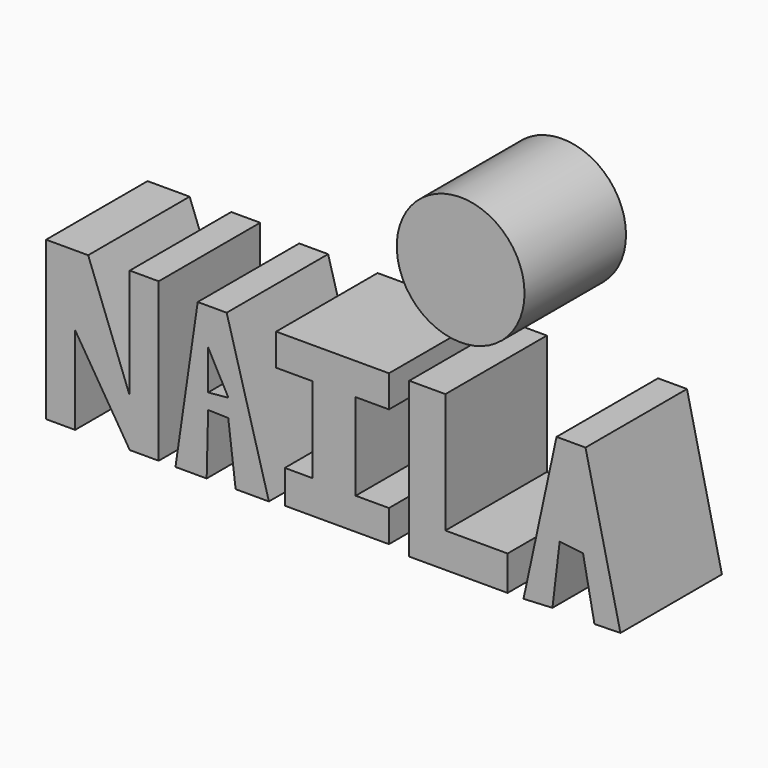
from build123d import *

# Parameters (mm, degrees)
F0_R     = 12.791713
F1_DEPTH = 25.4


with BuildPart() as f1:
    # F0 (on Front) → F1 (new body)
    with BuildSketch(Plane.XZ):
        Polygon((-96.025932, 46.598379), (-104.452759, 46.598379), (-104.452759, 14.954126), (-98.632827, 14.954126), (-98.632827, 32.542758), (-87.70068, 14.954126), (-81.899948, 14.954126), (-81.899948, 46.598379), (-87.70068, 46.598379), (-87.70068, 24.510974), align=None)
        Polygon((-74.091271, 45.482852), (-78.543378, 14.954126), (-72.295055, 14.954126), (-72.005339, 27.121907), (-67.973036, 27.025898), (-66.500872, 14.954126), (-59.837561, 14.954126), (-68.290539, 45.482852), align=None)
        Polygon((-72.005339, 38.185604), (-67.949414, 30.598417), (-72.005339, 30.218489), align=None, mode=Mode.SUBTRACT)
        Polygon((-56.650762, 21.907143), (-56.650762, 15.243835), (-35.79171, 15.243835), (-35.79171, 21.617435), (-42.455018, 21.617435), (-42.455018, 38.999978), (-35.79171, 38.999978), (-35.79171, 45.373574), (-58.389015, 45.373574), (-58.389015, 38.999978), (-51.146291, 38.999978), (-51.146291, 21.907143), align=None)
        Polygon((-24.493055, 45.373574), (-31.735782, 45.373574), (-31.735782, 14.374709), (-12.035567, 14.374709), (-12.035567, 21.327727), (-24.493055, 21.327727), align=None)
        Polygon((-2.23489, 45.079781), (-8.848767, 14.374709), (-3.054586, 14.664418), (-1.60604, 26.832197), (3.073577, 26.275099), (5.355509, 14.551056), (10.56174, 14.664418), (3.565842, 45.079781), align=None)
        with Locations((-21.437721, 68.276241)):
            Circle(F0_R)
    extrude(amount=F1_DEPTH)


solid = f1.part
